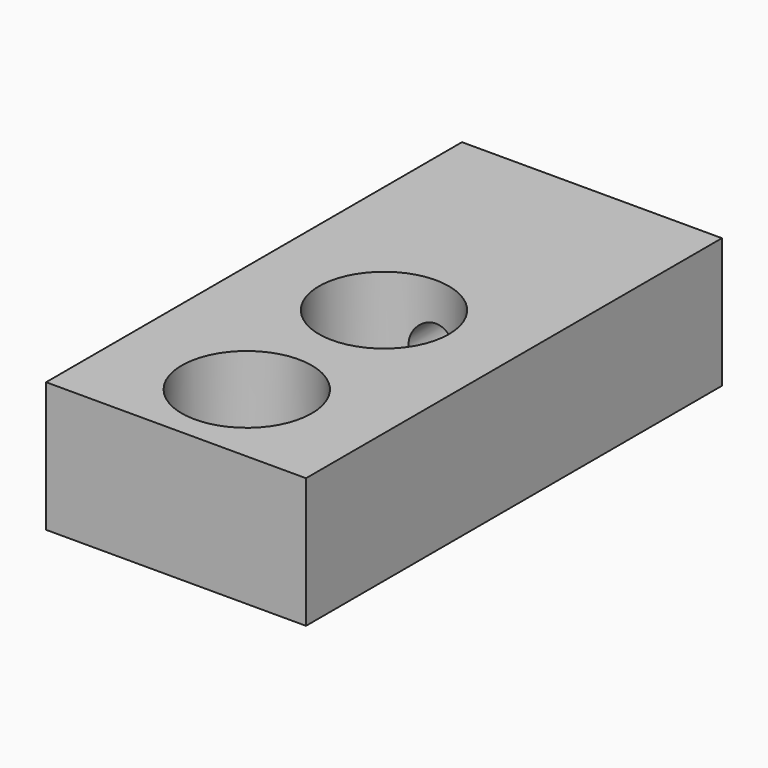
from build123d import *

# Parameters (mm, degrees)
F0_W     = 12.7
F0_H     = 25.4
F0_R     = 3.175
F1_DEPTH = 6.35
F2_R     = 1.162114
F3_DEPTH = 10.16


with BuildPart() as f1:
    # F0 (on Top) → F1 (new body)
    with BuildSketch(Plane.XY):
        Rectangle(F0_W, F0_H)
        with Locations((0, -8.382)):
            Circle(F0_R, mode=Mode.SUBTRACT)
        Circle(F0_R, mode=Mode.SUBTRACT)
    extrude(amount=F1_DEPTH)

    # F2 (on face) → F3 (cut)
    with BuildSketch(Plane(origin=(0, 12.7, 0), x_dir=(-1, 0, 0), z_dir=(0, 1, 0))):
        with Locations((0, 3.320315)):
            Circle(F2_R)
    extrude(amount=-F3_DEPTH, mode=Mode.SUBTRACT)


solid = f1.part
